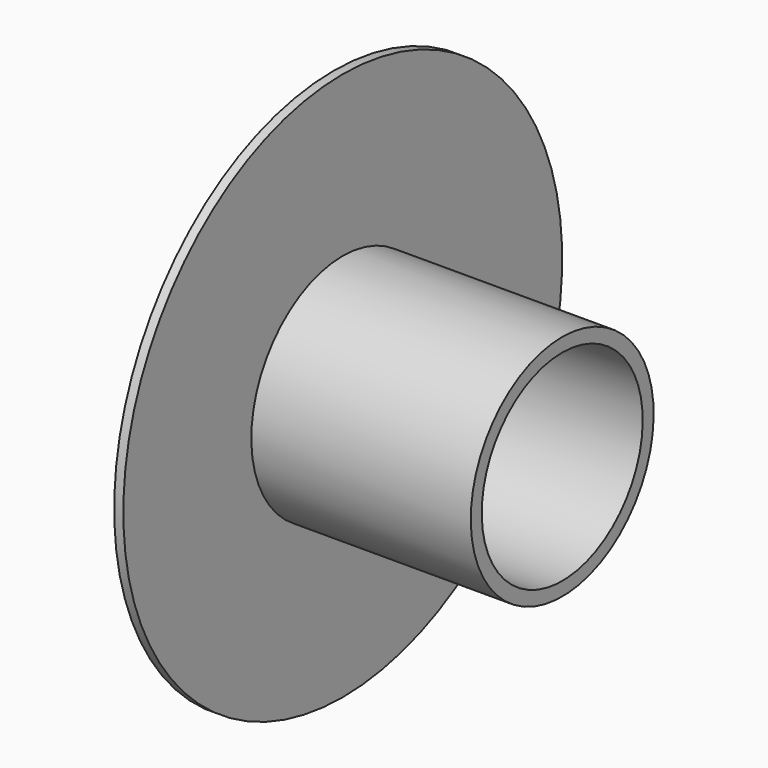
from build123d import *

# Parameters (mm, degrees)
F0_W     = 120
F0_H     = 7.5
F2_R     = 8.5
F3_DEPTH = 5


with BuildPart() as f1:
    # F0 (on Front) → F1 (revolve)
    with BuildSketch(Plane.XZ):
        Polygon((5, 150), (0, 150), (0, 55), (5, 55), (5, 62.5), align=None)
        with Locations((65, 58.75)):
            Rectangle(F0_W, F0_H)
    revolve(axis=Axis((38.455144, 0, 0), (1, 0, 0)))

    # F2 (on face) → F3 (join, through all)
    with BuildSketch(Plane.YZ.offset(5)):
        with Locations((-120, 0)):
            Circle(F2_R)
    extrude(amount=-F3_DEPTH)


solid = f1.part
